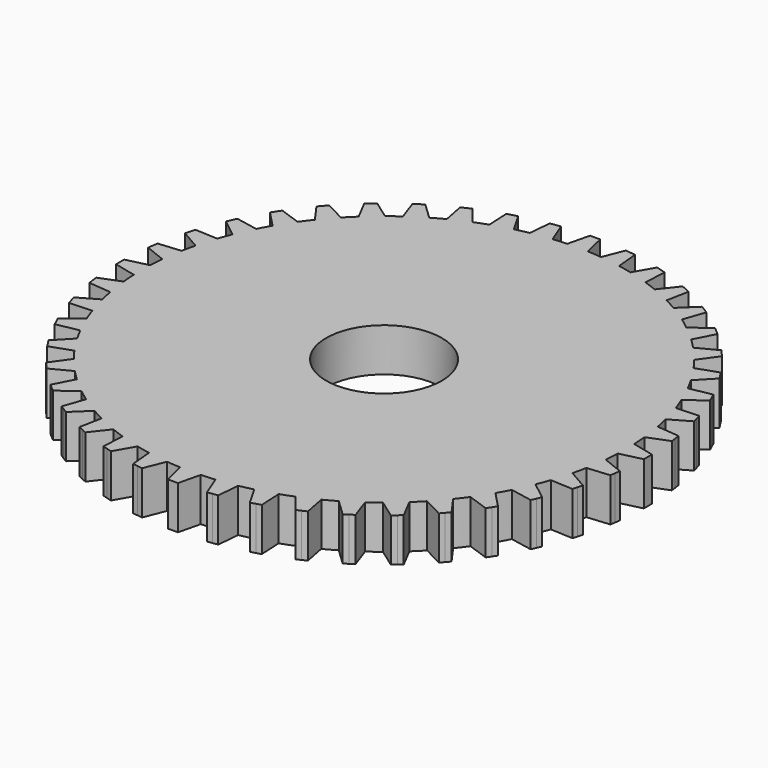
from build123d import *

# Parameters (mm, degrees)
F0_R     = 8
F1_DEPTH = 6


with BuildPart() as f1:
    # F0 (on Top) → F1 (new body)
    with BuildSketch(Plane.XY):
        with BuildLine():
            ThreePointArc((33.46957, -1.427542), (33.492392, -0.713933), (33.5, 0))
            ThreePointArc((33.5, 0), (33.492392, 0.713933), (33.46957, 1.427542))
            ThreePointArc((33.46957, 1.427542), (33.414646, 2.389863), (33.332059, 3.350205))
            ThreePointArc((33.332059, 3.350205), (33.159018, 4.767547), (32.925738, 6.176228))
            ThreePointArc((32.925738, 6.176228), (32.73442, 7.120937), (32.516002, 8.059751))
            ThreePointArc((32.516002, 8.059751), (32.143015, 9.438041), (31.711632, 10.799184))
            ThreePointArc((31.711632, 10.799184), (31.387816, 11.70705), (31.038014, 12.605224))
            ThreePointArc((31.038014, 12.605224), (30.472672, 13.916403), (29.85197, 15.2023))
            ThreePointArc((29.85197, 15.2023), (29.402246, 16.054841), (28.928181, 16.894091))
            ThreePointArc((28.928181, 16.894091), (28.181993, 18.111467), (27.384607, 19.29594))
            ThreePointArc((27.384607, 19.29594), (26.818132, 20.075802), (26.229454, 20.839043))
            ThreePointArc((26.229454, 20.839043), (25.317611, 21.937835), (24.359772, 22.996771))
            ThreePointArc((24.359772, 22.996771), (23.688077, 23.688077), (22.996771, 24.359772))
            ThreePointArc((22.996771, 24.359772), (21.937835, 25.317611), (20.839043, 26.229454))
            ThreePointArc((20.839043, 26.229454), (20.075802, 26.818132), (19.29594, 27.384607))
            ThreePointArc((19.29594, 27.384607), (18.111467, 28.181993), (16.894091, 28.928181))
            ThreePointArc((16.894091, 28.928181), (16.054841, 29.402246), (15.2023, 29.85197))
            ThreePointArc((15.2023, 29.85197), (13.916403, 30.472672), (12.605224, 31.038014))
            ThreePointArc((12.605224, 31.038014), (11.70705, 31.387816), (10.799184, 31.711632))
            ThreePointArc((10.799184, 31.711632), (9.438041, 32.143015), (8.059751, 32.516002))
            ThreePointArc((8.059751, 32.516002), (7.120937, 32.73442), (6.176228, 32.925738))
            ThreePointArc((6.176228, 32.925738), (4.767547, 33.159018), (3.350205, 33.332059))
            ThreePointArc((3.350205, 33.332059), (2.389863, 33.414646), (1.427542, 33.46957))
            ThreePointArc((1.427542, 33.46957), (0, 33.5), (-1.427542, 33.46957))
            ThreePointArc((-1.427542, 33.46957), (-2.389863, 33.414646), (-3.350205, 33.332059))
            ThreePointArc((-3.350205, 33.332059), (-4.767547, 33.159018), (-6.176228, 32.925738))
            ThreePointArc((-6.176228, 32.925738), (-7.120937, 32.73442), (-8.059751, 32.516002))
            ThreePointArc((-8.059751, 32.516002), (-9.438041, 32.143015), (-10.799184, 31.711632))
            ThreePointArc((-10.799184, 31.711632), (-11.70705, 31.387816), (-12.605224, 31.038014))
            ThreePointArc((-12.605224, 31.038014), (-13.916403, 30.472672), (-15.2023, 29.85197))
            ThreePointArc((-15.2023, 29.85197), (-16.054841, 29.402246), (-16.894091, 28.928181))
            ThreePointArc((-16.894091, 28.928181), (-18.111467, 28.181993), (-19.29594, 27.384607))
            ThreePointArc((-19.29594, 27.384607), (-20.075802, 26.818132), (-20.839043, 26.229454))
            ThreePointArc((-20.839043, 26.229454), (-21.937835, 25.317611), (-22.996771, 24.359772))
            ThreePointArc((-22.996771, 24.359772), (-23.688077, 23.688077), (-24.359772, 22.996771))
            ThreePointArc((-24.359772, 22.996771), (-25.317611, 21.937835), (-26.229454, 20.839043))
            ThreePointArc((-26.229454, 20.839043), (-26.818132, 20.075802), (-27.384607, 19.29594))
            ThreePointArc((-27.384607, 19.29594), (-28.181993, 18.111467), (-28.928181, 16.894091))
            ThreePointArc((-28.928181, 16.894091), (-29.402246, 16.054841), (-29.85197, 15.2023))
            ThreePointArc((-29.85197, 15.2023), (-30.472672, 13.916403), (-31.038014, 12.605224))
            ThreePointArc((-31.038014, 12.605224), (-31.387816, 11.70705), (-31.711632, 10.799184))
            ThreePointArc((-31.711632, 10.799184), (-32.143015, 9.438041), (-32.516002, 8.059751))
            ThreePointArc((-32.516002, 8.059751), (-32.73442, 7.120937), (-32.925738, 6.176228))
            ThreePointArc((-32.925738, 6.176228), (-33.159018, 4.767547), (-33.332059, 3.350205))
            ThreePointArc((-33.332059, 3.350205), (-33.414646, 2.389863), (-33.46957, 1.427542))
            ThreePointArc((-33.46957, 1.427542), (-33.5, 0), (-33.46957, -1.427542))
            ThreePointArc((-33.46957, -1.427542), (-33.414646, -2.389863), (-33.332059, -3.350205))
            ThreePointArc((-33.332059, -3.350205), (-33.159018, -4.767547), (-32.925738, -6.176228))
            ThreePointArc((-32.925738, -6.176228), (-32.73442, -7.120937), (-32.516002, -8.059751))
            ThreePointArc((-32.516002, -8.059751), (-32.143015, -9.438041), (-31.711632, -10.799184))
            ThreePointArc((-31.711632, -10.799184), (-31.387816, -11.70705), (-31.038014, -12.605224))
            ThreePointArc((-31.038014, -12.605224), (-30.472672, -13.916403), (-29.85197, -15.2023))
            ThreePointArc((-29.85197, -15.2023), (-29.402246, -16.054841), (-28.928181, -16.894091))
            ThreePointArc((-28.928181, -16.894091), (-28.181993, -18.111467), (-27.384607, -19.29594))
            ThreePointArc((-27.384607, -19.29594), (-26.818132, -20.075802), (-26.229454, -20.839043))
            ThreePointArc((-26.229454, -20.839043), (-25.317611, -21.937835), (-24.359772, -22.996771))
            ThreePointArc((-24.359772, -22.996771), (-23.688077, -23.688077), (-22.996771, -24.359772))
            ThreePointArc((-22.996771, -24.359772), (-21.937835, -25.317611), (-20.839043, -26.229454))
            ThreePointArc((-20.839043, -26.229454), (-20.075802, -26.818132), (-19.29594, -27.384607))
            ThreePointArc((-19.29594, -27.384607), (-18.111467, -28.181993), (-16.894091, -28.928181))
            ThreePointArc((-16.894091, -28.928181), (-16.054841, -29.402246), (-15.2023, -29.85197))
            ThreePointArc((-15.2023, -29.85197), (-13.916403, -30.472672), (-12.605224, -31.038014))
            ThreePointArc((-12.605224, -31.038014), (-11.70705, -31.387816), (-10.799184, -31.711632))
            ThreePointArc((-10.799184, -31.711632), (-9.438041, -32.143015), (-8.059751, -32.516002))
            ThreePointArc((-8.059751, -32.516002), (-7.120937, -32.73442), (-6.176228, -32.925738))
            ThreePointArc((-6.176228, -32.925738), (-4.767547, -33.159018), (-3.350205, -33.332059))
            ThreePointArc((-3.350205, -33.332059), (-2.389863, -33.414646), (-1.427542, -33.46957))
            ThreePointArc((-1.427542, -33.46957), (0, -33.5), (1.427542, -33.46957))
            ThreePointArc((1.427542, -33.46957), (2.389863, -33.414646), (3.350205, -33.332059))
            ThreePointArc((3.350205, -33.332059), (4.767547, -33.159018), (6.176228, -32.925738))
            ThreePointArc((6.176228, -32.925738), (7.120937, -32.73442), (8.059751, -32.516002))
            ThreePointArc((8.059751, -32.516002), (9.438041, -32.143015), (10.799184, -31.711632))
            ThreePointArc((10.799184, -31.711632), (11.70705, -31.387816), (12.605224, -31.038014))
            ThreePointArc((12.605224, -31.038014), (13.916403, -30.472672), (15.2023, -29.85197))
            ThreePointArc((15.2023, -29.85197), (16.054841, -29.402246), (16.894091, -28.928181))
            ThreePointArc((16.894091, -28.928181), (18.111467, -28.181993), (19.29594, -27.384607))
            ThreePointArc((19.29594, -27.384607), (20.075802, -26.818132), (20.839043, -26.229454))
            ThreePointArc((20.839043, -26.229454), (21.937835, -25.317611), (22.996771, -24.359772))
            ThreePointArc((22.996771, -24.359772), (23.688077, -23.688077), (24.359772, -22.996771))
            ThreePointArc((24.359772, -22.996771), (25.317611, -21.937835), (26.229454, -20.839043))
            ThreePointArc((26.229454, -20.839043), (26.818132, -20.075802), (27.384607, -19.29594))
            ThreePointArc((27.384607, -19.29594), (28.181993, -18.111467), (28.928181, -16.894091))
            ThreePointArc((28.928181, -16.894091), (29.402246, -16.054841), (29.85197, -15.2023))
            ThreePointArc((29.85197, -15.2023), (30.472672, -13.916403), (31.038014, -12.605224))
            ThreePointArc((31.038014, -12.605224), (31.387816, -11.70705), (31.711632, -10.799184))
            ThreePointArc((31.711632, -10.799184), (32.143015, -9.438041), (32.516002, -8.059751))
            ThreePointArc((32.516002, -8.059751), (32.73442, -7.120937), (32.925738, -6.176228))
            ThreePointArc((32.925738, -6.176228), (33.159018, -4.767547), (33.332059, -3.350205))
            ThreePointArc((33.332059, -3.350205), (33.414646, -2.389863), (33.46957, -1.427542))
        make_face()
        Circle(F0_R, mode=Mode.SUBTRACT)
        with BuildLine():
            ThreePointArc((33.46957, 1.427542), (33.492392, 0.713933), (33.5, 0))
            ThreePointArc((33.5, 0), (33.492392, -0.713933), (33.46957, -1.427542))
            Line((33.46957, -1.427542), (36.5, -0.7))
            Line((36.5, -0.7), (36.5, 0))
            Line((36.5, 0), (36.5, 0.7))
            Line((36.5, 0.7), (33.46957, 1.427542))
        make_face()
        with BuildLine():
            ThreePointArc((32.925738, 6.176228), (33.159018, 4.767547), (33.332059, 3.350205))
            Line((33.332059, 3.350205), (36.228103, 4.501617))
            Line((36.228103, 4.501617), (36.128483, 5.194492))
            Line((36.128483, 5.194492), (36.028862, 5.887367))
            Line((36.028862, 5.887367), (32.925738, 6.176228))
        make_face()
        with BuildLine():
            Line((36.228103, -4.501617), (33.332059, -3.350205))
            ThreePointArc((33.332059, -3.350205), (33.159018, -4.767547), (32.925738, -6.176228))
            Line((32.925738, -6.176228), (36.028862, -5.887367))
            Line((36.028862, -5.887367), (36.128483, -5.194492))
            Line((36.128483, -5.194492), (36.228103, -4.501617))
        make_face()
        with BuildLine():
            ThreePointArc((31.711632, 10.799184), (32.143015, 9.438041), (32.516002, 8.059751))
            Line((32.516002, 8.059751), (35.218706, 9.611593))
            Line((35.218706, 9.611593), (35.021494, 10.283238))
            Line((35.021494, 10.283238), (34.824281, 10.954883))
            Line((34.824281, 10.954883), (31.711632, 10.799184))
        make_face()
        with BuildLine():
            Line((35.218706, -9.611593), (32.516002, -8.059751))
            ThreePointArc((32.516002, -8.059751), (32.143015, -9.438041), (31.711632, -10.799184))
            Line((31.711632, -10.799184), (34.824281, -10.954883))
            Line((34.824281, -10.954883), (35.021494, -10.283238))
            Line((35.021494, -10.283238), (35.218706, -9.611593))
        make_face()
        with BuildLine():
            ThreePointArc((29.85197, 15.2023), (30.472672, 13.916403), (31.038014, 12.605224))
            Line((31.038014, 12.605224), (33.492358, 14.525906))
            Line((33.492358, 14.525906), (33.201568, 15.162648))
            Line((33.201568, 15.162648), (32.910777, 15.79939))
            Line((32.910777, 15.79939), (29.85197, 15.2023))
        make_face()
        with BuildLine():
            Line((33.492358, -14.525906), (31.038014, -12.605224))
            ThreePointArc((31.038014, -12.605224), (30.472672, -13.916403), (29.85197, -15.2023))
            Line((29.85197, -15.2023), (32.910777, -15.79939))
            Line((32.910777, -15.79939), (33.201568, -15.162648))
            Line((33.201568, -15.162648), (33.492358, -14.525906))
        make_face()
        with BuildLine():
            ThreePointArc((27.384607, 19.29594), (28.181993, 18.111467), (28.928181, 16.894091))
            Line((28.928181, 16.894091), (31.084203, 19.144512))
            Line((31.084203, 19.144512), (30.705754, 19.73339))
            Line((30.705754, 19.73339), (30.327305, 20.322267))
            Line((30.327305, 20.322267), (27.384607, 19.29594))
        make_face()
        with BuildLine():
            Line((31.084203, -19.144512), (28.928181, -16.894091))
            ThreePointArc((28.928181, -16.894091), (28.181993, -18.111467), (27.384607, -19.29594))
            Line((27.384607, -19.29594), (30.327305, -20.322267))
            Line((30.327305, -20.322267), (30.705754, -19.73339))
            Line((30.705754, -19.73339), (31.084203, -19.144512))
        make_face()
        with BuildLine():
            ThreePointArc((24.359772, 22.996771), (25.317611, 21.937835), (26.229454, 20.839043))
            Line((26.229454, 20.839043), (28.043262, 23.373392))
            Line((28.043262, 23.373392), (27.584859, 23.902417))
            Line((27.584859, 23.902417), (27.126457, 24.431441))
            Line((27.126457, 24.431441), (24.359772, 22.996771))
        make_face()
        with BuildLine():
            Line((28.043262, -23.373392), (26.229454, -20.839043))
            ThreePointArc((26.229454, -20.839043), (25.317611, -21.937835), (24.359772, -22.996771))
            Line((24.359772, -22.996771), (27.126457, -24.431441))
            Line((27.126457, -24.431441), (27.584859, -23.902417))
            Line((27.584859, -23.902417), (28.043262, -23.373392))
        make_face()
        with BuildLine():
            ThreePointArc((20.839043, 26.229454), (21.937835, 25.317611), (22.996771, 24.359772))
            Line((22.996771, 24.359772), (24.431441, 27.126457))
            Line((24.431441, 27.126457), (23.902417, 27.584859))
            Line((23.902417, 27.584859), (23.373392, 28.043262))
            Line((23.373392, 28.043262), (20.839043, 26.229454))
        make_face()
        with BuildLine():
            Line((24.431441, -27.126457), (22.996771, -24.359772))
            ThreePointArc((22.996771, -24.359772), (21.937835, -25.317611), (20.839043, -26.229454))
            Line((20.839043, -26.229454), (23.373392, -28.043262))
            Line((23.373392, -28.043262), (23.902417, -27.584859))
            Line((23.902417, -27.584859), (24.431441, -27.126457))
        make_face()
        with BuildLine():
            ThreePointArc((16.894091, 28.928181), (18.111467, 28.181993), (19.29594, 27.384607))
            Line((19.29594, 27.384607), (20.322267, 30.327305))
            Line((20.322267, 30.327305), (19.73339, 30.705754))
            Line((19.73339, 30.705754), (19.144512, 31.084203))
            Line((19.144512, 31.084203), (16.894091, 28.928181))
        make_face()
        with BuildLine():
            Line((20.322267, -30.327305), (19.29594, -27.384607))
            ThreePointArc((19.29594, -27.384607), (18.111467, -28.181993), (16.894091, -28.928181))
            Line((16.894091, -28.928181), (19.144512, -31.084203))
            Line((19.144512, -31.084203), (19.73339, -30.705754))
            Line((19.73339, -30.705754), (20.322267, -30.327305))
        make_face()
        with BuildLine():
            ThreePointArc((12.605224, 31.038014), (13.916403, 30.472672), (15.2023, 29.85197))
            Line((15.2023, 29.85197), (15.79939, 32.910777))
            Line((15.79939, 32.910777), (15.162648, 33.201568))
            Line((15.162648, 33.201568), (14.525906, 33.492358))
            Line((14.525906, 33.492358), (12.605224, 31.038014))
        make_face()
        with BuildLine():
            Line((15.79939, -32.910777), (15.2023, -29.85197))
            ThreePointArc((15.2023, -29.85197), (13.916403, -30.472672), (12.605224, -31.038014))
            Line((12.605224, -31.038014), (14.525906, -33.492358))
            Line((14.525906, -33.492358), (15.162648, -33.201568))
            Line((15.162648, -33.201568), (15.79939, -32.910777))
        make_face()
        with BuildLine():
            ThreePointArc((8.059751, 32.516002), (9.438041, 32.143015), (10.799184, 31.711632))
            Line((10.799184, 31.711632), (10.954883, 34.824281))
            Line((10.954883, 34.824281), (10.283238, 35.021494))
            Line((10.283238, 35.021494), (9.611593, 35.218706))
            Line((9.611593, 35.218706), (8.059751, 32.516002))
        make_face()
        with BuildLine():
            Line((10.954883, -34.824281), (10.799184, -31.711632))
            ThreePointArc((10.799184, -31.711632), (9.438041, -32.143015), (8.059751, -32.516002))
            Line((8.059751, -32.516002), (9.611593, -35.218706))
            Line((9.611593, -35.218706), (10.283238, -35.021494))
            Line((10.283238, -35.021494), (10.954883, -34.824281))
        make_face()
        with BuildLine():
            ThreePointArc((3.350205, 33.332059), (4.767547, 33.159018), (6.176228, 32.925738))
            Line((6.176228, 32.925738), (5.887367, 36.028862))
            Line((5.887367, 36.028862), (5.194492, 36.128483))
            Line((5.194492, 36.128483), (4.501617, 36.228103))
            Line((4.501617, 36.228103), (3.350205, 33.332059))
        make_face()
        with BuildLine():
            Line((5.887367, -36.028862), (6.176228, -32.925738))
            ThreePointArc((6.176228, -32.925738), (4.767547, -33.159018), (3.350205, -33.332059))
            Line((3.350205, -33.332059), (4.501617, -36.228103))
            Line((4.501617, -36.228103), (5.194492, -36.128483))
            Line((5.194492, -36.128483), (5.887367, -36.028862))
        make_face()
        with BuildLine():
            ThreePointArc((-1.427542, 33.46957), (0, 33.5), (1.427542, 33.46957))
            Line((1.427542, 33.46957), (0.7, 36.5))
            Line((0.7, 36.5), (0, 36.5))
            Line((0, 36.5), (-0.7, 36.5))
            Line((-0.7, 36.5), (-1.427542, 33.46957))
        make_face()
        with BuildLine():
            Line((0.7, -36.5), (1.427542, -33.46957))
            ThreePointArc((1.427542, -33.46957), (0, -33.5), (-1.427542, -33.46957))
            Line((-1.427542, -33.46957), (-0.7, -36.5))
            Line((-0.7, -36.5), (0, -36.5))
            Line((0, -36.5), (0.7, -36.5))
        make_face()
        with BuildLine():
            ThreePointArc((-6.176228, 32.925738), (-4.767547, 33.159018), (-3.350205, 33.332059))
            Line((-3.350205, 33.332059), (-4.501617, 36.228103))
            Line((-4.501617, 36.228103), (-5.194492, 36.128483))
            Line((-5.194492, 36.128483), (-5.887367, 36.028862))
            Line((-5.887367, 36.028862), (-6.176228, 32.925738))
        make_face()
        with BuildLine():
            Line((-4.501617, -36.228103), (-3.350205, -33.332059))
            ThreePointArc((-3.350205, -33.332059), (-4.767547, -33.159018), (-6.176228, -32.925738))
            Line((-6.176228, -32.925738), (-5.887367, -36.028862))
            Line((-5.887367, -36.028862), (-5.194492, -36.128483))
            Line((-5.194492, -36.128483), (-4.501617, -36.228103))
        make_face()
        with BuildLine():
            ThreePointArc((-10.799184, 31.711632), (-9.438041, 32.143015), (-8.059751, 32.516002))
            Line((-8.059751, 32.516002), (-9.611593, 35.218706))
            Line((-9.611593, 35.218706), (-10.283238, 35.021494))
            Line((-10.283238, 35.021494), (-10.954883, 34.824281))
            Line((-10.954883, 34.824281), (-10.799184, 31.711632))
        make_face()
        with BuildLine():
            Line((-9.611593, -35.218706), (-8.059751, -32.516002))
            ThreePointArc((-8.059751, -32.516002), (-9.438041, -32.143015), (-10.799184, -31.711632))
            Line((-10.799184, -31.711632), (-10.954883, -34.824281))
            Line((-10.954883, -34.824281), (-10.283238, -35.021494))
            Line((-10.283238, -35.021494), (-9.611593, -35.218706))
        make_face()
        with BuildLine():
            ThreePointArc((-15.2023, 29.85197), (-13.916403, 30.472672), (-12.605224, 31.038014))
            Line((-12.605224, 31.038014), (-14.525906, 33.492358))
            Line((-14.525906, 33.492358), (-15.162648, 33.201568))
            Line((-15.162648, 33.201568), (-15.79939, 32.910777))
            Line((-15.79939, 32.910777), (-15.2023, 29.85197))
        make_face()
        with BuildLine():
            Line((-14.525906, -33.492358), (-12.605224, -31.038014))
            ThreePointArc((-12.605224, -31.038014), (-13.916403, -30.472672), (-15.2023, -29.85197))
            Line((-15.2023, -29.85197), (-15.79939, -32.910777))
            Line((-15.79939, -32.910777), (-15.162648, -33.201568))
            Line((-15.162648, -33.201568), (-14.525906, -33.492358))
        make_face()
        with BuildLine():
            ThreePointArc((-19.29594, 27.384607), (-18.111467, 28.181993), (-16.894091, 28.928181))
            Line((-16.894091, 28.928181), (-19.144512, 31.084203))
            Line((-19.144512, 31.084203), (-19.73339, 30.705754))
            Line((-19.73339, 30.705754), (-20.322267, 30.327305))
            Line((-20.322267, 30.327305), (-19.29594, 27.384607))
        make_face()
        with BuildLine():
            Line((-19.144512, -31.084203), (-16.894091, -28.928181))
            ThreePointArc((-16.894091, -28.928181), (-18.111467, -28.181993), (-19.29594, -27.384607))
            Line((-19.29594, -27.384607), (-20.322267, -30.327305))
            Line((-20.322267, -30.327305), (-19.73339, -30.705754))
            Line((-19.73339, -30.705754), (-19.144512, -31.084203))
        make_face()
        with BuildLine():
            ThreePointArc((-22.996771, 24.359772), (-21.937835, 25.317611), (-20.839043, 26.229454))
            Line((-20.839043, 26.229454), (-23.373392, 28.043262))
            Line((-23.373392, 28.043262), (-23.902417, 27.584859))
            Line((-23.902417, 27.584859), (-24.431441, 27.126457))
            Line((-24.431441, 27.126457), (-22.996771, 24.359772))
        make_face()
        with BuildLine():
            Line((-23.373392, -28.043262), (-20.839043, -26.229454))
            ThreePointArc((-20.839043, -26.229454), (-21.937835, -25.317611), (-22.996771, -24.359772))
            Line((-22.996771, -24.359772), (-24.431441, -27.126457))
            Line((-24.431441, -27.126457), (-23.902417, -27.584859))
            Line((-23.902417, -27.584859), (-23.373392, -28.043262))
        make_face()
        with BuildLine():
            ThreePointArc((-26.229454, 20.839043), (-25.317611, 21.937835), (-24.359772, 22.996771))
            Line((-24.359772, 22.996771), (-27.126457, 24.431441))
            Line((-27.126457, 24.431441), (-27.584859, 23.902417))
            Line((-27.584859, 23.902417), (-28.043262, 23.373392))
            Line((-28.043262, 23.373392), (-26.229454, 20.839043))
        make_face()
        with BuildLine():
            Line((-27.126457, -24.431441), (-24.359772, -22.996771))
            ThreePointArc((-24.359772, -22.996771), (-25.317611, -21.937835), (-26.229454, -20.839043))
            Line((-26.229454, -20.839043), (-28.043262, -23.373392))
            Line((-28.043262, -23.373392), (-27.584859, -23.902417))
            Line((-27.584859, -23.902417), (-27.126457, -24.431441))
        make_face()
        with BuildLine():
            ThreePointArc((-28.928181, 16.894091), (-28.181993, 18.111467), (-27.384607, 19.29594))
            Line((-27.384607, 19.29594), (-30.327305, 20.322267))
            Line((-30.327305, 20.322267), (-30.705754, 19.73339))
            Line((-30.705754, 19.73339), (-31.084203, 19.144512))
            Line((-31.084203, 19.144512), (-28.928181, 16.894091))
        make_face()
        with BuildLine():
            Line((-30.327305, -20.322267), (-27.384607, -19.29594))
            ThreePointArc((-27.384607, -19.29594), (-28.181993, -18.111467), (-28.928181, -16.894091))
            Line((-28.928181, -16.894091), (-31.084203, -19.144512))
            Line((-31.084203, -19.144512), (-30.705754, -19.73339))
            Line((-30.705754, -19.73339), (-30.327305, -20.322267))
        make_face()
        with BuildLine():
            ThreePointArc((-31.038014, 12.605224), (-30.472672, 13.916403), (-29.85197, 15.2023))
            Line((-29.85197, 15.2023), (-32.910777, 15.79939))
            Line((-32.910777, 15.79939), (-33.201568, 15.162648))
            Line((-33.201568, 15.162648), (-33.492358, 14.525906))
            Line((-33.492358, 14.525906), (-31.038014, 12.605224))
        make_face()
        with BuildLine():
            Line((-32.910777, -15.79939), (-29.85197, -15.2023))
            ThreePointArc((-29.85197, -15.2023), (-30.472672, -13.916403), (-31.038014, -12.605224))
            Line((-31.038014, -12.605224), (-33.492358, -14.525906))
            Line((-33.492358, -14.525906), (-33.201568, -15.162648))
            Line((-33.201568, -15.162648), (-32.910777, -15.79939))
        make_face()
        with BuildLine():
            ThreePointArc((-32.516002, 8.059751), (-32.143015, 9.438041), (-31.711632, 10.799184))
            Line((-31.711632, 10.799184), (-34.824281, 10.954883))
            Line((-34.824281, 10.954883), (-35.021494, 10.283238))
            Line((-35.021494, 10.283238), (-35.218706, 9.611593))
            Line((-35.218706, 9.611593), (-32.516002, 8.059751))
        make_face()
        with BuildLine():
            Line((-34.824281, -10.954883), (-31.711632, -10.799184))
            ThreePointArc((-31.711632, -10.799184), (-32.143015, -9.438041), (-32.516002, -8.059751))
            Line((-32.516002, -8.059751), (-35.218706, -9.611593))
            Line((-35.218706, -9.611593), (-35.021494, -10.283238))
            Line((-35.021494, -10.283238), (-34.824281, -10.954883))
        make_face()
        with BuildLine():
            ThreePointArc((-33.332059, 3.350205), (-33.159018, 4.767547), (-32.925738, 6.176228))
            Line((-32.925738, 6.176228), (-36.028862, 5.887367))
            Line((-36.028862, 5.887367), (-36.128483, 5.194492))
            Line((-36.128483, 5.194492), (-36.228103, 4.501617))
            Line((-36.228103, 4.501617), (-33.332059, 3.350205))
        make_face()
        with BuildLine():
            Line((-36.028862, -5.887367), (-32.925738, -6.176228))
            ThreePointArc((-32.925738, -6.176228), (-33.159018, -4.767547), (-33.332059, -3.350205))
            Line((-33.332059, -3.350205), (-36.228103, -4.501617))
            Line((-36.228103, -4.501617), (-36.128483, -5.194492))
            Line((-36.128483, -5.194492), (-36.028862, -5.887367))
        make_face()
        with BuildLine():
            ThreePointArc((-33.46957, -1.427542), (-33.5, 0), (-33.46957, 1.427542))
            Line((-33.46957, 1.427542), (-36.5, 0.7))
            Line((-36.5, 0.7), (-36.5, 0))
            Line((-36.5, 0), (-36.5, -0.7))
            Line((-36.5, -0.7), (-33.46957, -1.427542))
        make_face()
    extrude(amount=F1_DEPTH)


solid = f1.part
